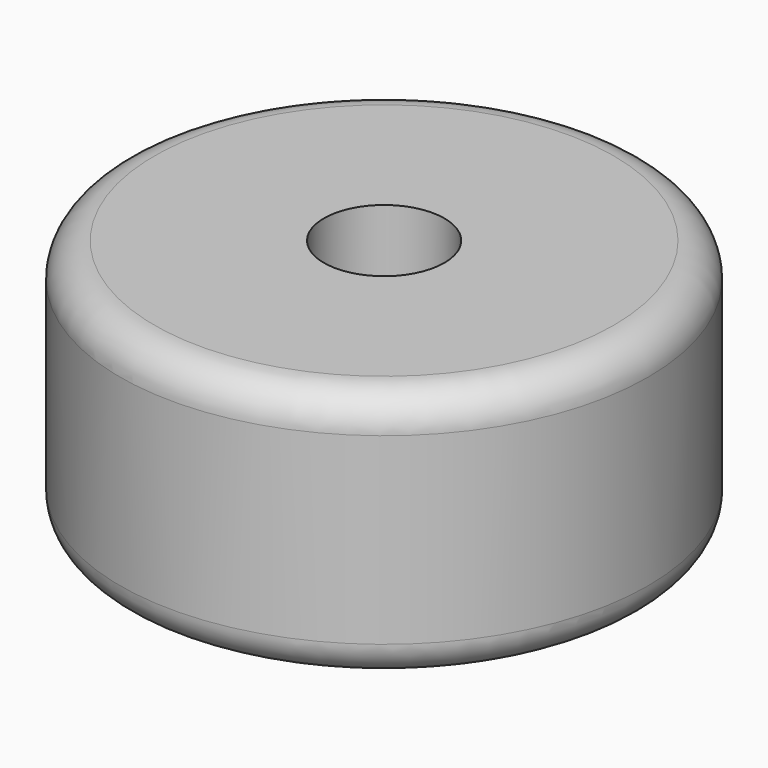
from build123d import *

# Parameters (mm, degrees)
F0_R     = 11.5
F0_R_2   = 2.625
F1_DEPTH = 11
F2_R     = 1.5


with BuildPart() as f1:
    # F0 (on Top) → F1 (new body)
    with BuildSketch(Plane.XY):
        Circle(F0_R)
        Circle(F0_R_2, mode=Mode.SUBTRACT)
        Circle(F0_R)
        Circle(F0_R_2, mode=Mode.SUBTRACT)
    extrude(amount=F1_DEPTH)

    # F2
    f2_edges = [f1.edges().sort_by_distance(p)[0] for p in [
        (-11.5, 0, 11),
        (-11.5, 0, 0),
    ]]
    fillet(f2_edges, radius=F2_R)


solid = f1.part
